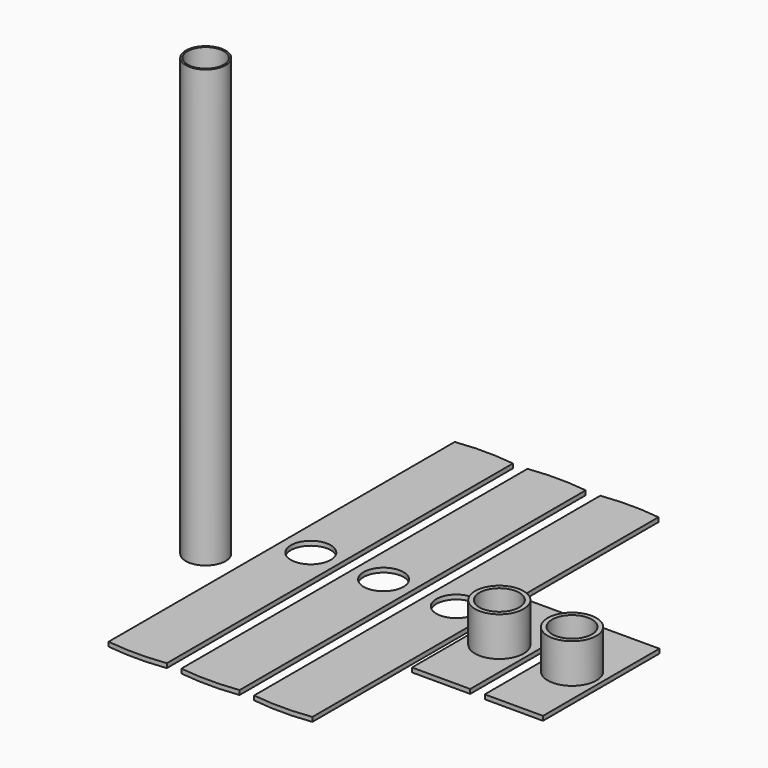
from build123d import *

# Parameters (mm, degrees)
F3_R      = 13.7
F5_DEPTH  = 300
F4_R      = 12.5
F6_DEPTH  = 300
F9_DEPTH  = 3
F8_R      = 13.7
F10_DEPTH = 3
F13_W     = 40
F13_H     = 100
F16_DEPTH = 3
F14_R     = 16.7
F17_DEPTH = 30
F15_R     = 13.7
F18_DEPTH = 30


with BuildPart() as f5:
    # F3 (on Top) → F5 (new body)
    with BuildSketch(Plane.XY):
        with Locations((-31.4400531352, 26.7874896526)):
            Circle(F3_R)
    extrude(amount=F5_DEPTH)

    # F4 (on Top) → F6 (cut)
    with BuildSketch(Plane.XY):
        with Locations((-31.4400531352, 26.7874896526)):
            Circle(F4_R)
    extrude(amount=F6_DEPTH, mode=Mode.SUBTRACT)


with BuildPart() as f9:
    # F7 (on Top) → F9 (new body)
    with BuildSketch(Plane.XY):
        with BuildLine():
            ThreePointArc((-4.6777552739, -90.0770403284), (15.3222447261, -91.4163528553), (35.3222447261, -90.0770403284))
            Line((35.3222447261, -90.0770403284), (35.3222447261, 207.2443346179))
            ThreePointArc((35.3222447261, 207.2443346179), (15.3222447261, 208.5836471447), (-4.6777552739, 207.2443346179))
            Line((-4.6777552739, 207.2443346179), (-4.6777552739, -90.0770403284))
        make_face()
    extrude(amount=F9_DEPTH)

    # F8 (on Top) → F10 (cut)
    with BuildSketch(Plane.XY):
        with Locations((15.3222447261, 58.5836471447)):
            Circle(F8_R)
    extrude(amount=F10_DEPTH, mode=Mode.SUBTRACT)


with BuildPart() as f11_1:
    # F11: copy of F9
    add(f9.part.moved(Location((50, 0, 0))))


with BuildPart() as f12_1:
    # F12: copy of F11_1
    add(f11_1.part.moved(Location((50, 0, 0))))


with BuildPart() as f16:
    # F13 (on Top) → F16 (new body)
    with BuildSketch(Plane.XY):
        with Locations((161.161770622, 38.2326990366)):
            Rectangle(F13_W, F13_H)
    extrude(amount=F16_DEPTH)

    # F14 (on Top) → F17 (join)
    with BuildSketch(Plane.XY):
        with Locations((161.161770622, 38.2326990366)):
            Circle(F14_R)
    extrude(amount=F17_DEPTH)

    # F15 (on Top) → F18 (cut)
    with BuildSketch(Plane.XY):
        with Locations((161.161770622, 38.2326990366)):
            Circle(F15_R)
    extrude(amount=F18_DEPTH, mode=Mode.SUBTRACT)


with BuildPart() as f19_1:
    # F19: copy of F16
    add(f16.part.moved(Location((50, 0, 0))))


solid = Compound([f5.part, f9.part, f11_1.part, f12_1.part, f16.part, f19_1.part])
